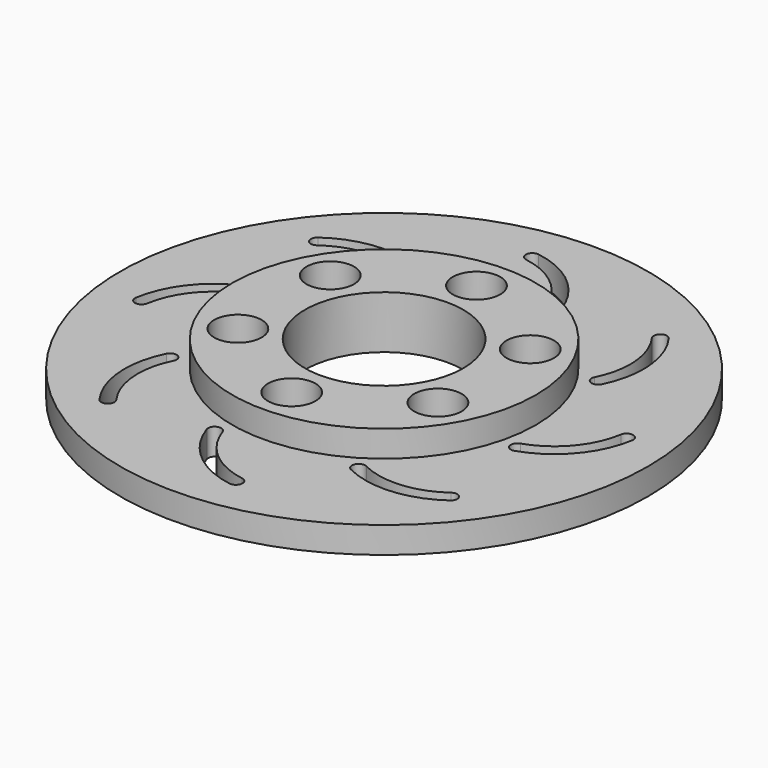
from build123d import *

# Parameters (mm, degrees)
F0_R     = 11.5
F0_R_2   = 1.8
F0_R_3   = 6
F1_DEPTH = 4
F0_R_4   = 20
F2_DEPTH = 2
F4_DEPTH = 2.001


with BuildPart() as f1:
    # F0 (on Top) → F1 (new body)
    with BuildSketch(Plane.XY):
        Circle(F0_R)
        with Locations((-7.577722, -4.375)):
            Circle(F0_R_2, mode=Mode.SUBTRACT)
        with Locations((0, -8.75)):
            Circle(F0_R_2, mode=Mode.SUBTRACT)
        with Locations((7.577722, -4.375)):
            Circle(F0_R_2, mode=Mode.SUBTRACT)
        with Locations((-7.577722, 4.375)):
            Circle(F0_R_2, mode=Mode.SUBTRACT)
        Circle(F0_R_3, mode=Mode.SUBTRACT)
        with Locations((7.577722, 4.375)):
            Circle(F0_R_2, mode=Mode.SUBTRACT)
        with Locations((0, 8.75)):
            Circle(F0_R_2, mode=Mode.SUBTRACT)
    extrude(amount=F1_DEPTH)

    # F0 (on Top) → F2 (join)
    with BuildSketch(Plane.XY):
        Circle(F0_R_4)
        Circle(F0_R, mode=Mode.SUBTRACT)
    extrude(amount=F2_DEPTH)

    # F3 (on face) → F4 (cut, through all)
    with BuildSketch(Plane.XY.offset(2)):
        with BuildLine():
            ThreePointArc((-2.192977, 16.187632), (0.664228, 14.871151), (2.423816, 12.263358))
            ThreePointArc((2.423816, 12.263358), (3.055985, 11.946556), (3.372786, 12.578724))
            ThreePointArc((3.372786, 12.578724), (1.311876, 15.633091), (-2.034612, 17.175013))
            ThreePointArc((-2.034612, 17.175013), (-2.607485, 16.760505), (-2.192977, 16.187632))
        make_face()
        with BuildLine():
            ThreePointArc((6.957606, -10.3854), (6.286583, -10.608398), (6.509581, -11.279421))
            ThreePointArc((6.509581, -11.279421), (10.126628, -11.981901), (13.583256, -10.705881))
            ThreePointArc((13.583256, -10.705881), (13.695237, -10.007697), (12.997054, -9.895716))
            ThreePointArc((12.997054, -9.895716), (10.045812, -10.985172), (6.957606, -10.3854))
        make_face()
        with BuildLine():
            ThreePointArc((-2.423816, -12.263358), (-3.055985, -11.946556), (-3.372786, -12.578724))
            ThreePointArc((-3.372786, -12.578724), (-1.311876, -15.633091), (2.034612, -17.175013))
            ThreePointArc((2.034612, -17.175013), (2.607485, -16.760505), (2.192977, -16.187632))
            ThreePointArc((2.192977, -16.187632), (-0.664228, -14.871151), (-2.423816, -12.263358))
        make_face()
        with BuildLine():
            ThreePointArc((-10.3854, -6.957606), (-10.608398, -6.286583), (-11.279421, -6.509581))
            ThreePointArc((-11.279421, -6.509581), (-11.981901, -10.126628), (-10.705881, -13.583256))
            ThreePointArc((-10.705881, -13.583256), (-10.007697, -13.695237), (-9.895716, -12.997054))
            ThreePointArc((-9.895716, -12.997054), (-10.985172, -10.045812), (-10.3854, -6.957606))
        make_face()
        with BuildLine():
            ThreePointArc((-12.263358, 2.423816), (-11.946556, 3.055985), (-12.578724, 3.372786))
            ThreePointArc((-12.578724, 3.372786), (-15.633091, 1.311876), (-17.175013, -2.034612))
            ThreePointArc((-17.175013, -2.034612), (-16.760505, -2.607485), (-16.187632, -2.192977))
            ThreePointArc((-16.187632, -2.192977), (-14.871151, 0.664228), (-12.263358, 2.423816))
        make_face()
        with BuildLine():
            ThreePointArc((-6.957606, 10.3854), (-6.286583, 10.608398), (-6.509581, 11.279421))
            ThreePointArc((-6.509581, 11.279421), (-10.126628, 11.981901), (-13.583256, 10.705881))
            ThreePointArc((-13.583256, 10.705881), (-13.695237, 10.007697), (-12.997054, 9.895716))
            ThreePointArc((-12.997054, 9.895716), (-10.045812, 10.985172), (-6.957606, 10.3854))
        make_face()
        with BuildLine():
            ThreePointArc((10.3854, 6.957606), (10.608398, 6.286583), (11.279421, 6.509581))
            ThreePointArc((11.279421, 6.509581), (11.981901, 10.126628), (10.705881, 13.583256))
            ThreePointArc((10.705881, 13.583256), (10.007697, 13.695237), (9.895716, 12.997054))
            ThreePointArc((9.895716, 12.997054), (10.985172, 10.045812), (10.3854, 6.957606))
        make_face()
        with BuildLine():
            ThreePointArc((12.263358, -2.423816), (11.946556, -3.055985), (12.578724, -3.372786))
            ThreePointArc((12.578724, -3.372786), (15.633091, -1.311876), (17.175013, 2.034612))
            ThreePointArc((17.175013, 2.034612), (16.760505, 2.607485), (16.187632, 2.192977))
            ThreePointArc((16.187632, 2.192977), (14.871151, -0.664228), (12.263358, -2.423816))
        make_face()
    extrude(amount=-F4_DEPTH, mode=Mode.SUBTRACT)


solid = f1.part
